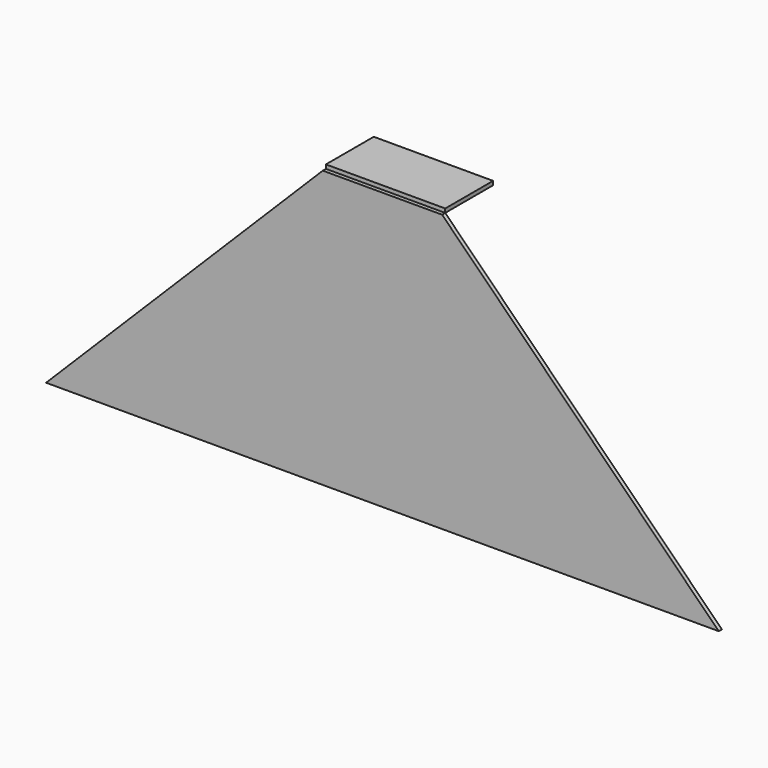
from build123d import *

# Parameters (mm, degrees)
F2_DEPTH = 3.175
F0_W     = 96.8248
F0_H     = 48.543591
F3_DEPTH = 3.175


with BuildPart() as f2:
    # F1 (on Front) → F2 (new body)
    with BuildSketch(Plane.XZ):
        Polygon((66.485056, 0), (-30.339744, 0), (-254.850344, -224.5106), (290.995656, -224.5106), align=None)
    extrude(amount=F2_DEPTH)


with BuildPart() as f3:
    # F0 (on Top) → F3 (new body)
    with BuildSketch(Plane.XY):
        with Locations((18.072656, 24.271795)):
            Rectangle(F0_W, F0_H)
    extrude(amount=F3_DEPTH)


solid = Compound([f2.part, f3.part])
